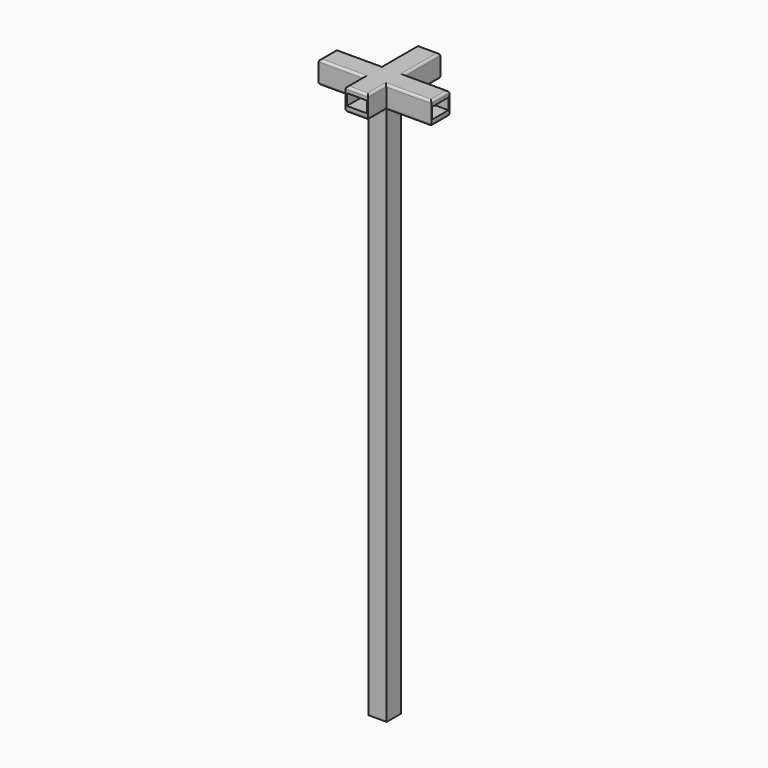
from build123d import *

# Parameters (mm, degrees)
F1_DEPTH = 5
F2_R     = 0.5
F3_W     = 4.5
F3_H     = 2.5
F4_DEPTH = 25
F5_W     = 4.5
F5_H     = 2.5
F6_DEPTH = 25
F7_W     = 4
F7_H     = 4
F7_W_2   = 3
F7_H_2   = 3
F8_DEPTH = 120


with BuildPart() as f1:
    # F0 (on Top) → F1 (new body)
    with BuildSketch(Plane.XY):
        Polygon((-2.157534, 3.810042), (-12.157534, 3.810042), (-12.157534, -1.189958), (-2.157534, -1.189958), (-2.157534, -6.189958), (2.842466, -6.189958), (2.842466, -1.189958), (12.842466, -1.189958), (12.842466, 3.810042), (2.842466, 3.810042), (2.842466, 13.810042), (-2.157534, 13.810042), align=None)
    extrude(amount=F1_DEPTH)

    # F2
    f2_edges = [f1.edges().sort_by_distance(p)[0] for p in [
        (-2.157534, 8.810042, 5),
        (-7.157534, 3.810042, 5),
        (-12.157534, 1.310042, 5),
        (-7.157534, -1.189958, 5),
        (-2.157534, -3.689958, 5),
        (0.342466, -6.189958, 5),
        (2.842466, -3.689958, 5),
        (7.842466, -1.189958, 5),
        (12.842466, 1.310042, 5),
        (7.842466, 3.810042, 5),
        (2.842466, 8.810042, 5),
        (0.342466, 13.810042, 5),
        (-2.157534, 8.810042, 0),
        (-7.157534, 3.810042, 0),
        (-12.157534, 1.310042, 0),
        (-7.157534, -1.189958, 0),
        (-2.157534, -3.689958, 0),
        (0.342466, -6.189958, 0),
        (2.842466, -3.689958, 0),
        (7.842466, -1.189958, 0),
        (12.842466, 1.310042, 0),
        (7.842466, 3.810042, 0),
        (2.842466, 8.810042, 0),
        (0.342466, 13.810042, 0),
    ]]
    fillet(f2_edges, radius=F2_R)

    # F3 (on Right) → F4 (cut, symmetric)
    with BuildSketch(Plane.YZ):
        with Locations((1.310042, 2.520103)):
            Rectangle(F3_W, F3_H)
    extrude(amount=F4_DEPTH, both=True, mode=Mode.SUBTRACT)

    # F5 (on Front) → F6 (cut, symmetric)
    with BuildSketch(Plane.XZ):
        with Locations((0.342466, 2.519919)):
            Rectangle(F5_W, F5_H)
    extrude(amount=F6_DEPTH, both=True, mode=Mode.SUBTRACT)

    # F7 (on Top) → F8 (join)
    with BuildSketch(Plane.XY):
        with Locations((0.416273, 1.462451)):
            Rectangle(F7_W, F7_H)
        with Locations((0.432896, 1.5)):
            Rectangle(F7_W_2, F7_H_2, mode=Mode.SUBTRACT)
    extrude(amount=-F8_DEPTH)


solid = f1.part
